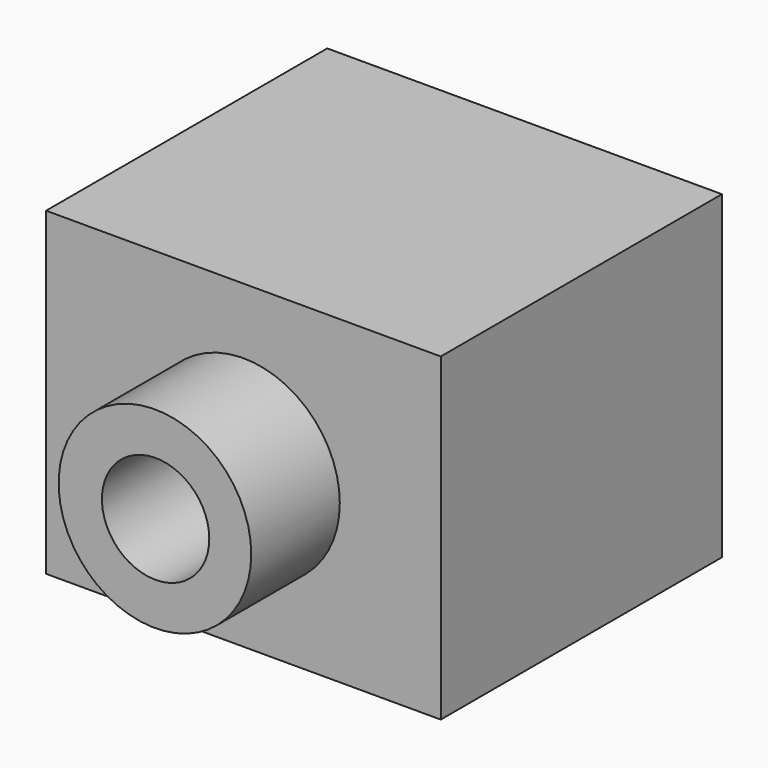
from build123d import *

# Parameters (mm, degrees)
F0_W     = 57.048134
F0_H     = 46.208985
F1_DEPTH = 50.8
F2_R     = 13.918447
F3_DEPTH = 66.802
F4_R     = 7.759386
F5_DEPTH = 66.803


with BuildPart() as f1:
    # F0 (on Front) → F1 (new body)
    with BuildSketch(Plane.XZ):
        with Locations((-43.748088, 28.113147)):
            Rectangle(F0_W, F0_H)
    extrude(amount=F1_DEPTH)

    # F2 (on Front) → F3 (join)
    with BuildSketch(Plane.XZ):
        with Locations((-43.734889, 27.810963)):
            Circle(F2_R)
    extrude(amount=F3_DEPTH)

    # F4 (on Front) → F5 (cut, through all)
    with BuildSketch(Plane.XZ):
        with Locations((-43.641817, 27.810963)):
            Circle(F4_R)
    extrude(amount=F5_DEPTH, mode=Mode.SUBTRACT)


solid = f1.part
